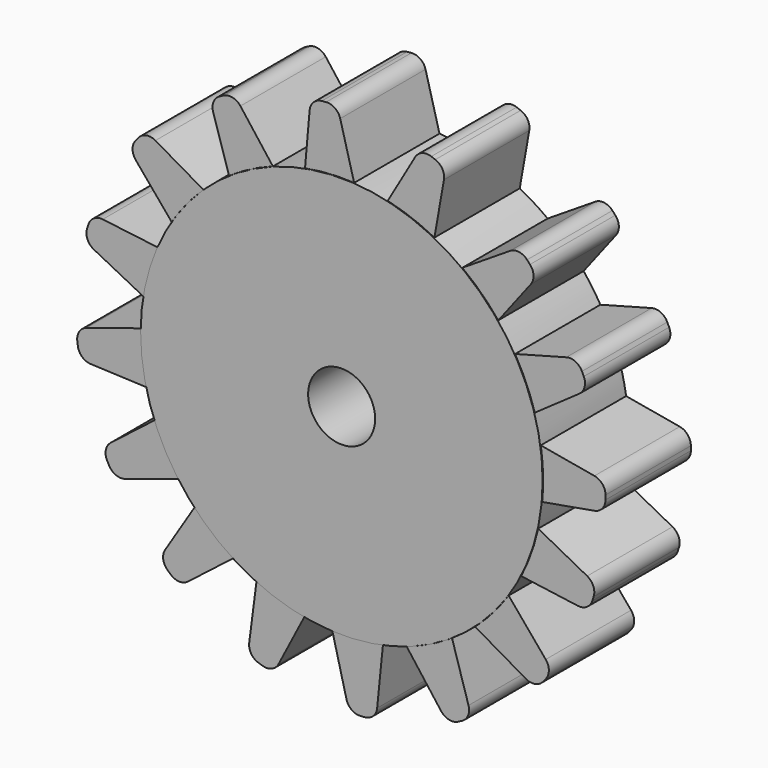
from build123d import *

# Parameters (mm, degrees)
F0_R     = 19.05
F0_R_2   = 3.175
F1_DEPTH = 3.81
F3_DEPTH = 3.7338
F5_DEPTH = 6.35
F6_DEPTH = 10.1092


with BuildPart() as f1:
    # F0 (on Front) → F1 (new body)
    with BuildSketch(Plane.XZ):
        Circle(F0_R)
        Circle(F0_R_2, mode=Mode.SUBTRACT)
    extrude(amount=F1_DEPTH)

    # F2 (on Front) → F3, piece 2 (join)
    with BuildSketch(Plane.XZ):
        with BuildLine():
            Line((19.3002153026, -14.8442822065), (15.2105484158, -9.9704070017))
            Line((15.2105484158, -9.9704070017), (11.9190644701, -13.8930448189))
            Line((11.9190644701, -13.8930448189), (17.4290577612, -17.0742409287))
            ThreePointArc((17.4290577612, -17.0742409287), (18.2845909468, -17.2250945122), (19.036934204, -16.7907289302))
            Line((19.036934204, -16.7907289302), (19.3002153026, -16.4769627351))
            ThreePointArc((19.3002153026, -16.4769627351), (19.5973388598, -15.6606224708), (19.3002153026, -14.8442822065))
        make_face()
        with BuildLine():
            Line((11.9828917218, -21.0592770188), (10.1196430624, -14.9758290499))
            Line((10.1196430624, -14.9758290499), (5.5582912351, -17.3028493588))
            Line((5.5582912351, -17.3028493588), (9.3898339973, -22.3821519505))
            ThreePointArc((9.3898339973, -22.3821519505), (10.1186515435, -22.8549297204), (10.9808538675, -22.7486236155))
            Line((10.9808538675, -22.7486236155), (11.3457098838, -22.5624885854))
            ThreePointArc((11.3457098838, -22.5624885854), (11.9378629358, -21.9268404135), (11.9828917218, -21.0592770188))
        make_face()
        with BuildLine():
            Line((3.3225191024, -24.1014032107), (3.9599463344, -17.7710223943))
            Line((3.9599463344, -17.7710223943), (-1.1466123432, -18.1505121598))
            Line((-1.1466123432, -18.1505121598), (0.4195197448, -24.3171372529))
            ThreePointArc((0.4195197448, -24.3171372529), (0.9084468903, -25.0352208705), (1.7445620653, -25.2710285242))
            Line((1.7445620653, -25.2710285242), (2.1530283986, -25.24067368))
            ThreePointArc((2.1530283986, -25.24067368), (2.9451040203, -24.8838683481), (3.3225191024, -24.1014032107))
        make_face()
        with BuildLine():
            Line((-6.024496716, -23.4720864394), (-3.1015451532, -17.8208574653))
            Line((-3.1015451532, -17.8208574653), (-7.9892249639, -16.2939193272))
            Line((-7.9892249639, -16.2939193272), (-8.8030668347, -22.604045805))
            ThreePointArc((-8.8030668347, -22.604045805), (-8.6128057983, -23.4516863972), (-7.9222045185, -23.9787193257))
            Line((-7.9222045185, -23.9787193257), (-7.531245993, -24.100856926))
            ThreePointArc((-7.531245993, -24.100856926), (-6.6634444839, -24.0606776264), (-6.024496716, -23.4720864394))
        make_face()
        with BuildLine():
            Line((-14.6087634205, -19.377536382), (-9.5885228366, -15.4689280316))
            Line((-9.5885228366, -15.4689280316), (-13.3881088706, -12.0361303417))
            Line((-13.3881088706, -12.0361303417), (-16.7687691136, -17.4260441702))
            ThreePointArc((-16.7687691136, -17.4260441702), (-16.9508230748, -18.275485275), (-16.5442742828, -19.0432169437))
            Line((-16.5442742828, -19.0432169437), (-16.2403508241, -19.3178015268))
            ThreePointArc((-16.2403508241, -19.3178015268), (-15.4354279769, -19.6445935792), (-14.6087634205, -19.377536382))
        make_face()
        with BuildLine():
            Line((-20.5652638633, -12.7449498911), (-14.5090268925, -10.7950707898))
            Line((-14.5090268925, -10.7950707898), (-16.9009077473, -6.2673936827))
            Line((-16.9009077473, -6.2673936827), (-21.9250110088, -10.1710357224))
            ThreePointArc((-21.9250110088, -10.1710357224), (-22.3873392768, -10.9065263124), (-22.2687390391, -11.7671236741))
            Line((-22.2687390391, -11.7671236741), (-22.0774159066, -12.1292860977))
            ThreePointArc((-22.0774159066, -12.1292860977), (-21.4333815325, -12.7123071611), (-20.5652638633, -12.7449498911))
        make_face()
        with BuildLine():
            Line((-23.8361925967, -4.2197788404), (-17.4791440368, -4.48048627))
            Line((-17.4791440368, -4.48048627), (-18.1609497484, 0.5945600333))
            Line((-18.1609497484, 0.5945600333), (-24.2237885625, -1.3346937785))
            ThreePointArc((-24.2237885625, -1.3346937785), (-24.9115978854, -1.8653652124), (-25.0973813726, -2.713998426))
            Line((-25.0973813726, -2.713998426), (-25.0428447078, -3.1199441296))
            ThreePointArc((-25.0428447078, -3.1199441296), (-24.6396722009, -3.8894542108), (-23.8361925967, -4.2197788404))
        make_face()
        with BuildLine():
            Line((-23.5361590974, 5.4379167113), (-17.8682561964, 2.5474303402))
            Line((-17.8682561964, 2.5474303402), (-16.3693803408, 7.4437886991))
            Line((-16.3693803408, 7.4437886991), (-22.6840714351, 8.2214204499))
            ThreePointArc((-22.6840714351, 8.2214204499), (-23.5306066884, 8.0263002296), (-24.053669455, 7.3326870971))
            Line((-24.053669455, 7.3326870971), (-24.1735623934, 6.9410343869))
            ThreePointArc((-24.1735623934, 6.9410343869), (-24.1284057917, 6.0734776356), (-23.5361590974, 5.4379167113))
        make_face()
        with BuildLine():
            Line((-19.5623090328, 14.1900364797), (-15.4726421461, 9.3161612749))
            Line((-15.4726421461, 9.3161612749), (-12.1811582004, 13.2387990921))
            Line((-12.1811582004, 13.2387990921), (-17.6911514915, 16.419995202))
            ThreePointArc((-17.6911514915, 16.419995202), (-18.5466846771, 16.5708487855), (-19.2990279342, 16.1364832035))
            Line((-19.2990279342, 16.1364832035), (-19.5623090328, 15.8227170083))
            ThreePointArc((-19.5623090328, 15.8227170083), (-19.8594325901, 15.006376744), (-19.5623090328, 14.1900364797))
        make_face()
        with BuildLine():
            Line((-12.2220281822, 20.5830006913), (-10.324199684, 14.5102515817))
            Line((-10.324199684, 14.5102515817), (-5.7761605757, 16.8631847042))
            Line((-5.7761605757, 16.8631847042), (-9.6365385319, 21.9206066554))
            ThreePointArc((-9.6365385319, 21.9206066554), (-10.3680340136, 22.3892303804), (-11.2296175865, 22.2780207486))
            Line((-11.2296175865, 22.2780207486), (-11.5934087375, 22.0898129895))
            ThreePointArc((-11.5934087375, 22.0898129895), (-12.1819358724, 21.4508062237), (-12.2220281822, 20.5830006913))
        make_face()
        with BuildLine():
            Line((-3.0776811638, 23.6942735067), (-3.6322001833, 17.3560921103))
            Line((-3.6322001833, 17.3560921103), (1.4689542355, 17.8023852928))
            Line((1.4689542355, 17.8023852928), (-0.1777540434, 23.9479842548))
            ThreePointArc((-0.1777540434, 23.9479842548), (-0.6760377686, 24.6596071637), (-1.5151676361, 24.8844513341))
            Line((-1.5151676361, 24.8844513341), (-1.9232016905, 24.84875298))
            ThreePointArc((-1.9232016905, 24.84875298), (-2.7105395093, 24.4816113255), (-3.0776811638, 23.6942735067))
        make_face()
        with BuildLine():
            Line((6.9191977973, 23.0382329287), (3.7380016875, 17.5282396376))
            Line((3.7380016875, 17.5282396376), (8.5498293092, 15.7768776109))
            Line((8.5498293092, 15.7768776109), (9.6546471237, 22.0426107965))
            ThreePointArc((9.6546471237, 22.0426107965), (9.5037935402, 22.8981439822), (8.8383068594, 23.4565536106))
            Line((8.8383068594, 23.4565536106), (8.4534156421, 23.5966425571))
            ThreePointArc((8.4534156421, 23.5966425571), (7.5846844781, 23.5966425571), (6.9191977973, 23.0382329287))
        make_face()
        with BuildLine():
            Line((15.9169355088, 18.1412522665), (10.5493562296, 14.7252418101))
            Line((10.5493562296, 14.7252418101), (14.0070511629, 10.9482986337))
            Line((14.0070511629, 10.9482986337), (17.8825814171, 15.9941186865))
            ThreePointArc((17.8825814171, 15.9941186865), (18.1441998983, 16.8225205248), (17.8121248444, 17.6252782679))
            Line((17.8121248444, 17.6252782679), (17.5355487664, 17.9273905568))
            ThreePointArc((17.5355487664, 17.9273905568), (16.7651617859, 18.328884935), (15.9169355088, 18.1412522665))
        make_face()
        with BuildLine():
            Line((21.2552525466, 11.001283816), (15.1096535847, 9.3545755371))
            Line((15.1096535847, 9.3545755371), (17.2737295605, 4.7136996305))
            Line((17.2737295605, 4.7136996305), (22.4854961538, 8.3630178866))
            ThreePointArc((22.4854961538, 8.3630178866), (22.983779879, 9.0746407955), (22.9080649691, 9.9400661752))
            Line((22.9080649691, 9.9400661752), (22.7349636234, 10.311283209))
            ThreePointArc((22.7349636234, 10.311283209), (22.1206779263, 10.9255689062), (21.2552525466, 11.001283816))
        make_face()
        with BuildLine():
            Line((23.9182224306, 1.9714912908), (17.6524892449, 3.0763091054))
            Line((17.6524892449, 3.0763091054), (17.6524892449, -2.0443308946))
            Line((17.6524892449, -2.0443308946), (23.9182224306, -0.9395130801))
            ThreePointArc((23.9182224306, -0.9395130801), (24.6705656877, -0.505147498), (24.9676892449, 0.3111927663))
            Line((24.9676892449, 0.3111927663), (24.9676892449, 0.7207854445))
            ThreePointArc((24.9676892449, 0.7207854445), (24.6705656877, 1.5371257088), (23.9182224306, 1.9714912908))
        make_face()
        with BuildLine():
            Line((23.229211427, -6.6084690539), (17.6019985229, -3.6395450588))
            Line((17.6019985229, -3.6395450588), (16.0352661171, -8.5146146561))
            Line((16.0352661171, -8.5146146561), (22.338548369, -9.379870462))
            ThreePointArc((22.338548369, -9.379870462), (23.1877118276, -9.196525825), (23.7203571155, -8.5102439349))
            Line((23.7203571155, -8.5102439349), (23.8456778024, -8.1202940823))
            ThreePointArc((23.8456778024, -8.1202940823), (23.8125742696, -7.2521938626), (23.229211427, -6.6084690539))
        make_face()
    extrude(amount=F3_DEPTH)

    # F5 (add): a face of the model
    f5_faces = [f1.faces().sort_by_distance(p)[0] for p in [
        (-18.5111846327, -3.81, 0),
    ]]
    extrude(f5_faces, amount=F5_DEPTH)

    # F6 (add): a face of the model
    f6_faces = [f1.faces().sort_by_distance(p)[0] for p in [
        (24.1275892459, 0, -0.049536166),
    ]]
    extrude(f6_faces, amount=-F6_DEPTH)


with BuildPart() as f3:
    # F2 (on Front) → F3 (new body)
    with BuildSketch(Plane.XZ):
        with BuildLine():
            Line((-44.3880631869, 14.6072879799), (-45.4928810014, 8.3415547942))
            Line((-45.4928810014, 8.3415547942), (-40.3722410014, 8.3415547942))
            Line((-40.3722410014, 8.3415547942), (-41.477058816, 14.6072879799))
            ThreePointArc((-41.477058816, 14.6072879799), (-41.911424398, 15.359631237), (-42.7277646623, 15.6567547942))
            Line((-42.7277646623, 15.6567547942), (-43.1373573405, 15.6567547942))
            ThreePointArc((-43.1373573405, 15.6567547942), (-43.9536976048, 15.359631237), (-44.3880631869, 14.6072879799))
        make_face()
    extrude(amount=F3_DEPTH)


solid = f1.part
